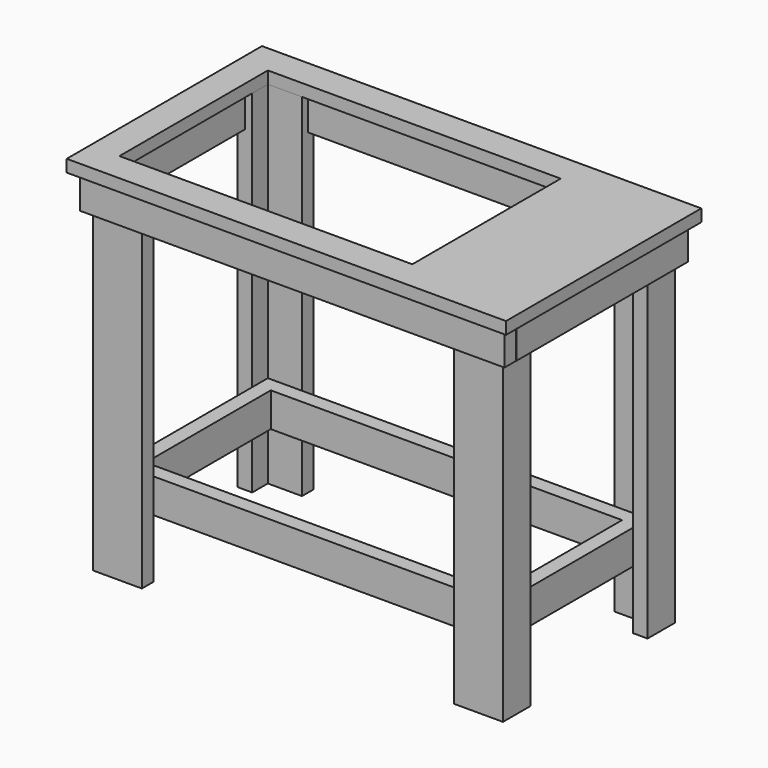
from build123d import *

# Parameters (mm, degrees)
F2_W      = 1143
F2_H      = 635
F3_DEPTH  = 31.75
F1_W      = 762
F1_H      = 482.6
F4_DEPTH  = 31.751
F5_W      = 1.2670725822
F5_H      = 38.1
F5_W_2    = 190.5
F6_DEPTH  = 88.9
F7_W      = 88.9
F7_H      = 38.1
F8_DEPTH  = 914.4
F11_W     = 38.1
F11_H     = 406.4
F12_DEPTH = 88.9


with BuildPart() as f3:
    # F2 (on face) → F3 (new body)
    with BuildSketch(Plane.XY):
        Rectangle(F2_W, F2_H)
    extrude(amount=-F3_DEPTH)

    # F1 (on face) → F4 (cut, through all)
    with BuildSketch(Plane.XY):
        with Locations((-114.3, 0)):
            Rectangle(F1_W, F1_H)
    extrude(amount=-F4_DEPTH, mode=Mode.SUBTRACT)


with BuildPart() as f6:
    # F5 (on face) → F6 (new body)
    with BuildSketch(Plane(origin=(0, 0, -31.75), x_dir=(1, 0, 0), z_dir=(0, 0, -1))):
        Polygon((-552.45, 298.45), (-552.45, 260.35), (-514.35, 260.35), (285.75, 260.35), (323.85, 260.35), (372.0845580101, 260.35), (514.35, 260.35), (552.1619319916, 260.35), (552.1619319916, 298.45), align=None)
        Polygon((-514.35, 260.35), (-552.45, 260.35), (-552.45, -298.45), (-514.35, -298.45), (-514.35, -260.35), align=None)
        Polygon((285.75, -260.35), (-514.35, -260.35), (-514.35, -298.45), (514.35, -298.45), (514.35, -260.35), (323.85, -260.35), align=None)
        with Locations((514.9835362911, -279.4)):
            Rectangle(F5_W, F5_H)
        Polygon((552.45, 260.35), (552.1619319916, 260.35), (514.35, 260.35), (514.35, 19.05), (514.35, -19.05), (514.35, -260.35), (515.6170725822, -260.35), (515.6170725822, -298.45), (552.45, -298.45), align=None)
        Polygon((323.85, 260.35), (285.75, 260.35), (285.75, -260.35), (323.85, -260.35), (323.85, -19.05), (323.85, 19.05), align=None)
        with Locations((419.1, 0)):
            Rectangle(F5_W_2, F5_H)
    extrude(amount=F6_DEPTH)


with BuildPart() as f8:
    # F7 (on face) → F8 (new body)
    with BuildSketch(Plane(origin=(0, 0, -31.75), x_dir=(1, 0, 0), z_dir=(0, 0, -1))):
        Polygon((-495.3, 279.4), (-533.4, 279.4), (-533.4, 190.5), (-495.3, 190.5), (-495.3, 241.3), align=None)
        with Locations((-450.85, 260.35)):
            Rectangle(F7_W, F7_H)
    extrude(amount=F8_DEPTH)


with BuildPart() as f8b:
    # F7 (on face) → F8, piece 2 (new body)
    with BuildSketch(Plane(origin=(0, 0, -31.75), x_dir=(1, 0, 0), z_dir=(0, 0, -1))):
        Polygon((533.1119319916, 279.4), (495.0119319916, 279.4), (495.0119319916, 241.3), (495.0119319916, 190.5), (533.1119319916, 190.5), align=None)
        with Locations((450.5619319916, 260.35)):
            Rectangle(F7_W, F7_H)
    extrude(amount=F8_DEPTH)


with BuildPart() as f8c:
    # F7 (on face) → F8, piece 3 (new body)
    with BuildSketch(Plane(origin=(0, 0, -31.75), x_dir=(1, 0, 0), z_dir=(0, 0, -1))):
        Polygon((495.3, -279.4), (533.4, -279.4), (533.4, -190.5), (495.3, -190.5), (495.3, -241.3), align=None)
        with Locations((450.85, -260.35)):
            Rectangle(F7_W, F7_H)
    extrude(amount=F8_DEPTH)


with BuildPart() as f8d:
    # F7 (on face) → F8, piece 4 (new body)
    with BuildSketch(Plane(origin=(0, 0, -31.75), x_dir=(1, 0, 0), z_dir=(0, 0, -1))):
        Polygon((-533.4, -190.5), (-533.4, -279.4), (-495.3, -279.4), (-495.3, -241.3), (-495.3, -190.5), align=None)
        with Locations((-450.85, -260.35)):
            Rectangle(F7_W, F7_H)
    extrude(amount=F8_DEPTH)


with BuildPart() as f12:
    # F11 (on offset) → F12 (new body)
    with BuildSketch(Plane.XY.offset(-793.75)):
        Polygon((-495.3, -203.2), (-495.3, -241.3), (495.0119319916, -241.3), (495.0119319916, -203.2), (456.9119319916, -203.2), (-457.2, -203.2), align=None)
        with Locations((-476.25, 0)):
            Rectangle(F11_W, F11_H)
        with Locations((475.9619319916, 0)):
            Rectangle(F11_W, F11_H)
        Polygon((-495.3, 241.3), (-495.3, 203.2), (-457.2, 203.2), (456.9119319916, 203.2), (495.0119319916, 203.2), (495.3, 203.2), (495.3, 241.3), align=None)
    extrude(amount=F12_DEPTH)


solid = Compound([f3.part, f6.part, f8.part, f8b.part, f8c.part, f8d.part, f12.part])
